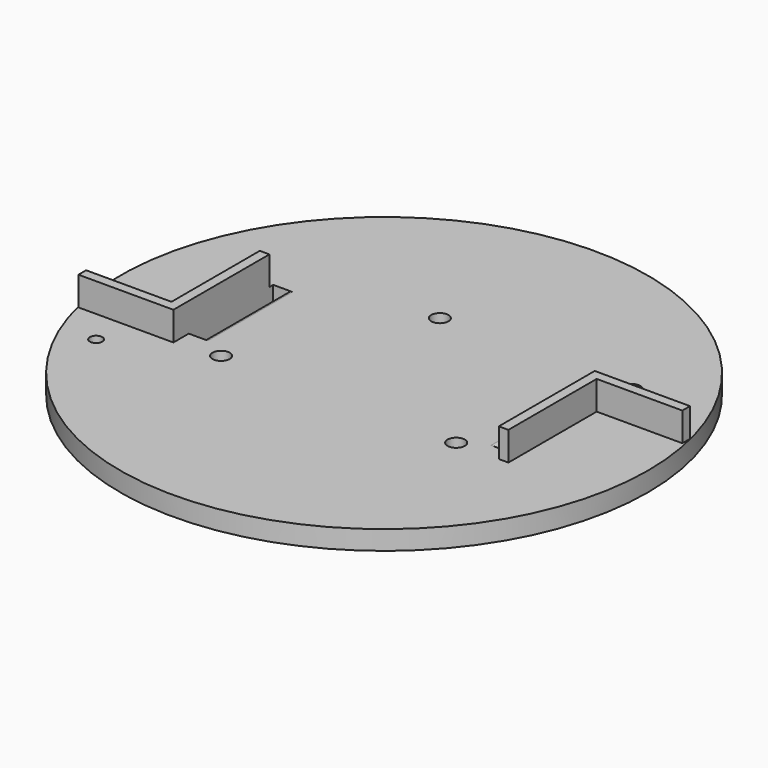
from build123d import *

# Parameters (mm, degrees)
SKETCH_R        = 55
PAD_DEPTH       = 4
SKETCH002_R     = 1.8
POCKET_DEPTH    = 5
PAD001_DEPTH    = 6
SKETCH003_R     = 1.3
POCKET001_DEPTH = 5
SKETCH004_W     = 3
SKETCH004_H     = 22
POCKET002_DEPTH = 5
FILLET_R        = 1
FILLET001_R     = 1
FILLET002_R     = 1
FILLET003_R     = 1


with BuildPart() as part:
    # Sketch → Pad (new body)
    with BuildSketch(Plane.XY):
        Circle(SKETCH_R)
    extrude(amount=PAD_DEPTH)

    # Sketch002 → Pocket (cut)
    with BuildSketch(Plane.XY.offset(4)):
        with Locations((-24.5, -11.840143)):
            Circle(SKETCH002_R)
        with Locations((24.5, -11.840143)):
            Circle(SKETCH002_R)
        with Locations((-5, 20.774952)):
            Circle(SKETCH002_R)
        with Locations((35, 20.774952)):
            Circle(SKETCH002_R)
    extrude(amount=-POCKET_DEPTH, mode=Mode.SUBTRACT)

    # Sketch001 (on Face3 of Pad) → Pad001 (join)
    with BuildSketch(Plane.XY.offset(4)):
        Polygon((33.500008, 0), (33.500008, 13), (53.345406, 13), (53.345406, 11), (35.5, 11), (35.5, -0.005684), (35.5, -12), (33.500008, -12), align=None)
        Polygon((-33.5, 0), (-33.5, -13), (-53.293575, -13), (-53.293575, -11), (-35.5, -11), (-35.5, 0.001212), (-35.5, 12), (-33.5, 12), align=None)
    extrude(amount=PAD001_DEPTH)

    # Sketch003 (on Face3 of Pad001) → Pocket001 (cut)
    with BuildSketch(Plane.XY.offset(4)):
        with Locations((-44, -20)):
            Circle(SKETCH003_R)
        with Locations((44, 20)):
            Circle(SKETCH003_R)
    extrude(amount=-POCKET001_DEPTH, mode=Mode.SUBTRACT)

    # Sketch004 → Pocket002 (cut)
    with BuildSketch(Plane.XY.offset(4)):
        with Locations((32, 2)):
            Rectangle(SKETCH004_W, SKETCH004_H)
    pocket002 = extrude(amount=-POCKET002_DEPTH, mode=Mode.SUBTRACT)

    # Mirrored: Pocket002 across Sketch004 V_Axis
    add(pocket002.mirror(Plane(origin=(0, 0, 4), x_dir=(0, 0, 1), z_dir=(1, 0, 0))), mode=Mode.SUBTRACT)

    # Fillet
    fillet_edges = [part.edges().sort_by_distance(p)[0] for p in [
        (30.5, 2, 4),
    ]]
    fillet(fillet_edges, radius=FILLET_R)

    # Fillet001
    fillet001_edges = [part.edges().sort_by_distance(p)[0] for p in [
        (-30.5, 2, 4),
    ]]
    fillet(fillet001_edges, radius=FILLET001_R)

    # Fillet002
    fillet002_edges = [part.edges().sort_by_distance(p)[0] for p in [
        (-30.5, 2, 0),
    ]]
    fillet(fillet002_edges, radius=FILLET002_R)

    # Fillet003
    fillet003_edges = [part.edges().sort_by_distance(p)[0] for p in [
        (30.5, 2, 0),
    ]]
    fillet(fillet003_edges, radius=FILLET003_R)


solid = part.part
